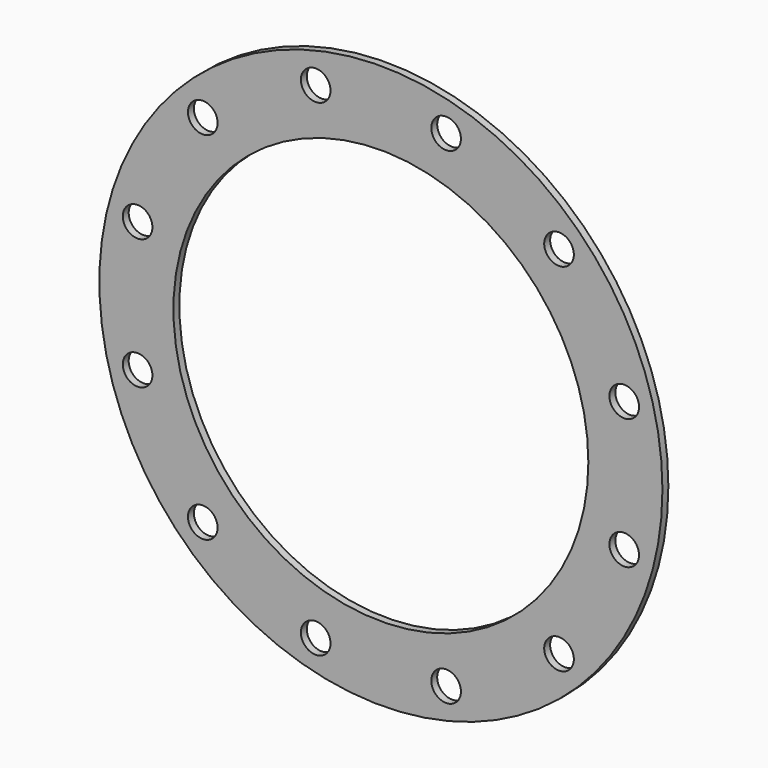
from build123d import *

# Parameters (mm, degrees)
F0_R     = 241.3
F0_R_2   = 12.7
F0_R_3   = 177.8
F1_DEPTH = 6.35


with BuildPart() as f1:
    # F0 (on Front) → F1 (new body)
    with BuildSketch(Plane.XZ):
        Circle(F0_R)
        with Locations((-152.6643540582, -152.6643540582)):
            Circle(F0_R_2, mode=Mode.SUBTRACT)
        with Locations((-55.8790318376, -208.5433858958)):
            Circle(F0_R_2, mode=Mode.SUBTRACT)
        with Locations((-208.5433858958, -55.8790318376)):
            Circle(F0_R_2, mode=Mode.SUBTRACT)
        with Locations((55.8790318376, -208.5433858958)):
            Circle(F0_R_2, mode=Mode.SUBTRACT)
        with Locations((152.6643540582, -152.6643540582)):
            Circle(F0_R_2, mode=Mode.SUBTRACT)
        with Locations((208.5433858958, -55.8790318376)):
            Circle(F0_R_2, mode=Mode.SUBTRACT)
        with Locations((-208.5433858958, 55.8790318376)):
            Circle(F0_R_2, mode=Mode.SUBTRACT)
        with Locations((-152.6643540582, 152.6643540582)):
            Circle(F0_R_2, mode=Mode.SUBTRACT)
        with Locations((-55.8790318376, 208.5433858958)):
            Circle(F0_R_2, mode=Mode.SUBTRACT)
        Circle(F0_R_3, mode=Mode.SUBTRACT)
        with Locations((208.5433858958, 55.8790318376)):
            Circle(F0_R_2, mode=Mode.SUBTRACT)
        with Locations((55.8790318376, 208.5433858958)):
            Circle(F0_R_2, mode=Mode.SUBTRACT)
        with Locations((152.6643540582, 152.6643540582)):
            Circle(F0_R_2, mode=Mode.SUBTRACT)
    extrude(amount=F1_DEPTH)


solid = f1.part
